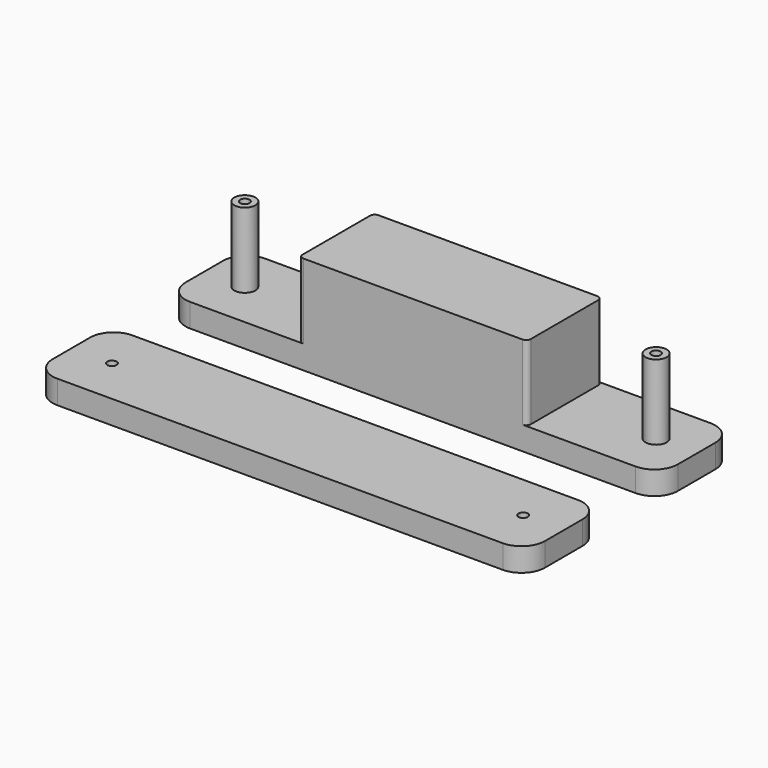
from build123d import *

# Parameters (mm, degrees)
F0_W     = 48.7
F0_H     = 20
F1_DEPTH = 21
F0_W_2   = 52.5
F0_R     = 1
F2_DEPTH = 5
F0_R_2   = 2.25
F3_DEPTH = 5
F4_DEPTH = 21
F5_R     = 5
F5_2_R   = 5
F6_R     = 1
F7_R     = 1
F8_R     = 1
F9_DEPTH = 22.6


with BuildPart() as f1:
    # F0 (on Top) → F1 (new body)
    with BuildSketch(Plane.XY):
        Rectangle(F0_W, F0_H)
    extrude(amount=F1_DEPTH)

    # F0 (on Top) → F3 (join)
    with BuildSketch(Plane.XY):
        with BuildLine():
            Line((-52.5, -10), (-32.6696601125, -10))
            ThreePointArc((-32.6696601125, -10), (-29.8374146156, -5.3523313466), (-28.85, 0))
            ThreePointArc((-28.85, 0), (-29.8374146156, 5.3523313466), (-32.6696601125, 10))
            Line((-32.6696601125, 10), (-52.5, 10))
            Line((-52.5, 10), (-52.5, -10))
        make_face()
        with Locations((-43.85, 0)):
            Circle(F0_R_2, mode=Mode.SUBTRACT)
        with BuildLine():
            Line((-32.6696601125, -10), (-24.35, -10))
            Line((-24.35, -10), (-24.35, 10))
            Line((-24.35, 10), (-32.6696601125, 10))
            ThreePointArc((-32.6696601125, 10), (-29.8374146156, 5.3523313466), (-28.85, 0))
            ThreePointArc((-28.85, 0), (-29.8374146156, -5.3523313466), (-32.6696601125, -10))
        make_face()
        with BuildLine():
            ThreePointArc((32.6696601125, 10), (28.85, 0), (32.6696601125, -10))
            Line((32.6696601125, -10), (52.5, -10))
            Line((52.5, -10), (52.5, 10))
            Line((52.5, 10), (32.6696601125, 10))
        make_face()
        with Locations((43.85, 0)):
            Circle(F0_R_2, mode=Mode.SUBTRACT)
        with BuildLine():
            Line((24.35, 10), (24.35, -10))
            Line((24.35, -10), (32.6696601125, -10))
            ThreePointArc((32.6696601125, -10), (28.85, 0), (32.6696601125, 10))
            Line((32.6696601125, 10), (24.35, 10))
        make_face()
    extrude(amount=F3_DEPTH)

    # F0 (on Top) → F4 (join)
    with BuildSketch(Plane.XY):
        with Locations((-43.85, 0)):
            Circle(F0_R_2)
        with Locations((43.85, 0)):
            Circle(F0_R_2)
    extrude(amount=F4_DEPTH)

    # F5
    f5_edges = [f1.edges().sort_by_distance(p)[0] for p in [
        (-52.5, -10, 2.5),
        (52.5, -10, 2.5),
        (52.5, 10, 2.5),
        (-52.5, 10, 2.5),
    ]]
    fillet(f5_edges, radius=F5_R)

    # F6
    f6_edges = [f1.edges().sort_by_distance(p)[0] for p in [
        (24.35, -10, 13),
        (24.35, 10, 13),
        (-24.35, -10, 13),
        (-24.35, 10, 13),
    ]]
    fillet(f6_edges, radius=F6_R)

    # F7 (on face) + F8 (on face) → F9 (cut)
    with BuildSketch(Plane.XY.offset(21)):
        with Locations((-43.85, 0)):
            Circle(F7_R)
    with BuildSketch(Plane.XY.offset(21)):
        with Locations((43.85, 0)):
            Circle(F8_R)
    extrude(amount=-F9_DEPTH, mode=Mode.SUBTRACT)


with BuildPart() as f2:
    # F0 (on Top) → F2 (new body)
    with BuildSketch(Plane.XY):
        with Locations((-26.25, -35.4267337918)):
            Rectangle(F0_W_2, F0_H)
        with Locations((-43.85, -35.4267337918)):
            Circle(F0_R, mode=Mode.SUBTRACT)
        with Locations((26.25, -35.4267337918)):
            Rectangle(F0_W_2, F0_H)
        with Locations((43.85, -35.4267337918)):
            Circle(F0_R, mode=Mode.SUBTRACT)
    extrude(amount=F2_DEPTH)

    # F5#2
    f5_2_edges = [f2.edges().sort_by_distance(p)[0] for p in [
        (-52.5, -45.426734, 2.5),
        (-52.5, -25.426734, 2.5),
        (52.5, -45.426734, 2.5),
        (52.5, -25.426734, 2.5),
    ]]
    fillet(f5_2_edges, radius=F5_2_R)


solid = Compound([f1.part, f2.part])
